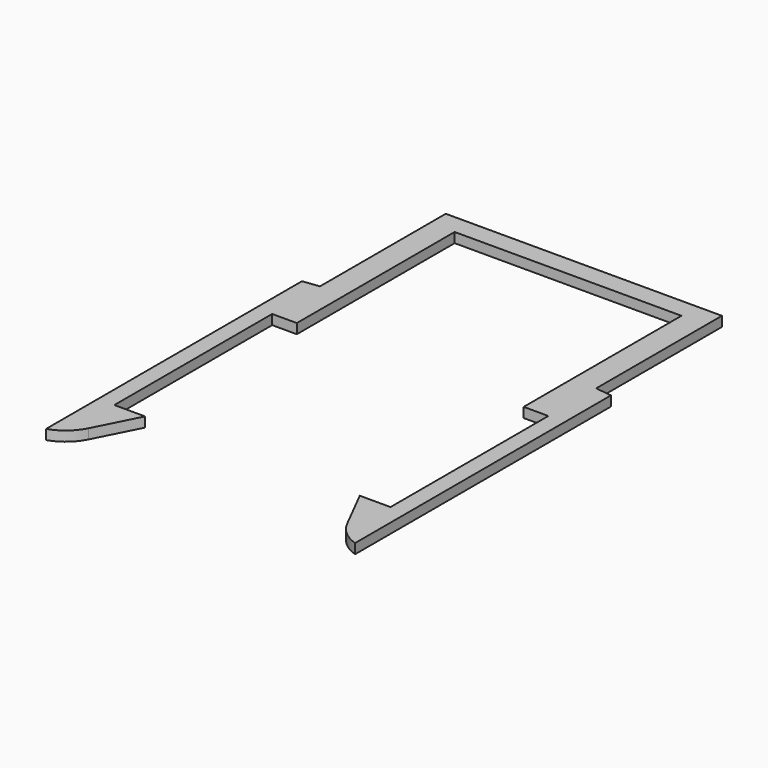
from build123d import *

# Parameters (mm, degrees)
F1_DEPTH = 3.175


with BuildPart() as f1:
    # F0 (on Top) → F1 (new body)
    with BuildSketch(Plane.XY):
        with BuildLine():
            Line((-36.5125, 38.1), (-36.5125, 57.945310822))
            ThreePointArc((-36.5125, 57.945310822), (-40.4848830959, 57.6795592635), (-44.45, 57.3213703633))
            Line((-44.45, 57.3213703633), (-44.45, 38.1))
            Line((-44.45, 38.1), (-36.5125, 38.1))
        make_face()
        with BuildLine():
            ThreePointArc((-44.45, 57.3213703633), (-40.4848830959, 57.6795592635), (-36.5125, 57.945310822))
            Line((-36.5125, 57.945310822), (-36.5125, 101.6))
            Line((-36.5125, 101.6), (36.5125, 101.6))
            Line((36.5125, 101.6), (36.5125, 57.945310822))
            ThreePointArc((36.5125, 57.945310822), (40.4848830959, 57.6795592635), (44.45, 57.3213703633))
            Line((44.45, 57.3213703633), (44.45, 107.95))
            Line((44.45, 107.95), (-44.45, 107.95))
            Line((-44.45, 107.95), (-44.45, 57.3213703633))
        make_face()
        with BuildLine():
            ThreePointArc((44.45, 57.3213703633), (40.4848830959, 57.6795592635), (36.5125, 57.945310822))
            Line((36.5125, 57.945310822), (36.5125, 38.1))
            Line((36.5125, 38.1), (44.45, 38.1))
            Line((44.45, 38.1), (44.45, 57.3213703633))
        make_face()
        with BuildLine():
            Line((-44.45, 38.1), (-44.45, 57.3213703633))
            ThreePointArc((-44.45, 57.3213703633), (-47.0968073958, 57.030316595), (-49.7387601656, 56.6980708297))
            Line((-49.7387601656, 56.6980708297), (-49.7387601656, -46.2588373944))
            ThreePointArc((-49.7387601656, -46.2588373944), (-44.9970348608, -43.6276453916), (-41.6393822328, -39.3693242376))
            Line((-41.6393822328, -39.3693242376), (-34.5534929288, -25.4))
            Line((-34.5534929288, -25.4), (-44.45, -25.4))
            Line((-44.45, -25.4), (-44.45, 38.1))
        make_face()
        with BuildLine():
            ThreePointArc((49.7387601656, 56.6980708297), (47.0968073958, 57.030316595), (44.45, 57.3213703633))
            Line((44.45, 57.3213703633), (44.45, 38.1))
            Line((44.45, 38.1), (44.45, -25.4))
            Line((44.45, -25.4), (34.5534929288, -25.4))
            Line((34.5534929288, -25.4), (41.6393822328, -39.3693242376))
            ThreePointArc((41.6393822328, -39.3693242376), (44.9970348608, -43.6276453916), (49.7387601656, -46.2588373944))
            Line((49.7387601656, -46.2588373944), (49.7387601656, 56.6980708297))
        make_face()
    extrude(amount=F1_DEPTH)


solid = f1.part
